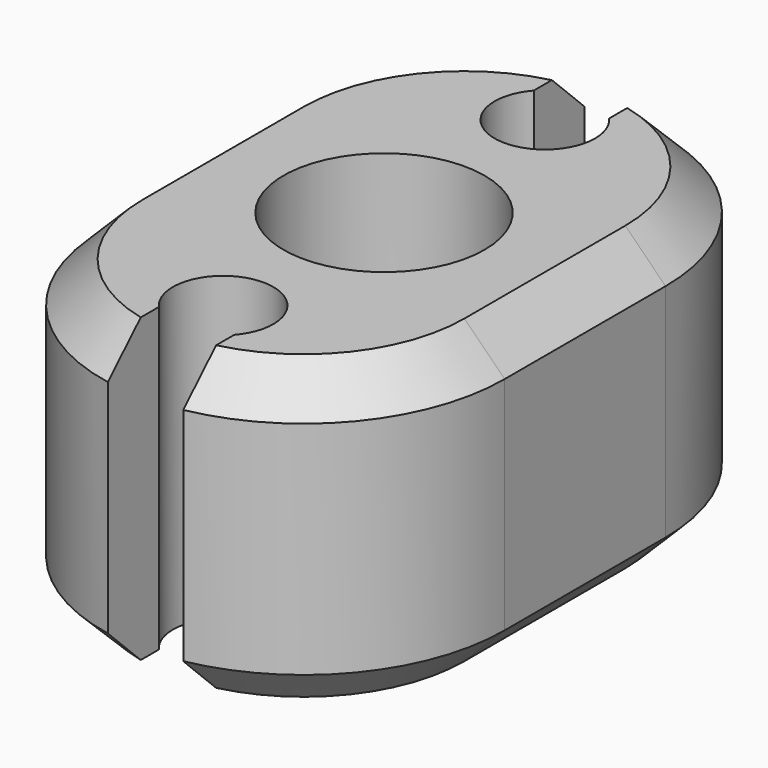
from build123d import *

# Parameters (mm, degrees)
SKETCH_R           = 1
PAD_DEPTH          = 3
POCKET_DEPTH       = 18.621499
POLARPATTERN_COUNT = 2
CHAMFER_SIZE       = 0.4


with BuildPart() as part:
    # Sketch (on XY_Plane of Origin) → Pad (new body)
    with BuildSketch(Plane.XY):
        with BuildLine():
            ThreePointArc((2, 1), (0, 3), (-2, 1))
            Line((-2, 1), (-2, -1))
            ThreePointArc((-2, -1), (0, -3), (2, -1))
            Line((2, 1), (2, -1))
        make_face()
        Circle(SKETCH_R, mode=Mode.SUBTRACT)
    extrude(amount=PAD_DEPTH)

    # Sketch001 (on Face7 of Pad) → Pocket (cut, through all)
    with BuildSketch(Plane.XY.offset(3)):
        with BuildLine():
            ThreePointArc((-0.375, 2.330719), (0, 1.5), (0.375, 2.330719))
            Line((0.375, 4.330719), (0.375, 2.330719))
            Line((-0.375, 4.330719), (0.375, 4.330719))
            Line((-0.375, 2.330719), (-0.375, 4.330719))
        make_face()
    pocket = extrude(amount=-POCKET_DEPTH, mode=Mode.SUBTRACT)

    # PolarPattern: Pocket ×2 about axis
    polarpattern_axis = Axis((0, 0, 0), (0, 0, 1))
    for i in range(1, POLARPATTERN_COUNT):
        add(pocket.rotate(polarpattern_axis, i * 360 / POLARPATTERN_COUNT), mode=Mode.SUBTRACT)

    # Chamfer
    chamfer_edges = [part.edges().sort_by_distance(p)[0] for p in [
        (-2, 0, 0),
        (-2, 0, 3),
        (2, 0, 0),
        (2, 0, 3),
    ]]
    chamfer(chamfer_edges, length=CHAMFER_SIZE)


solid = part.part
